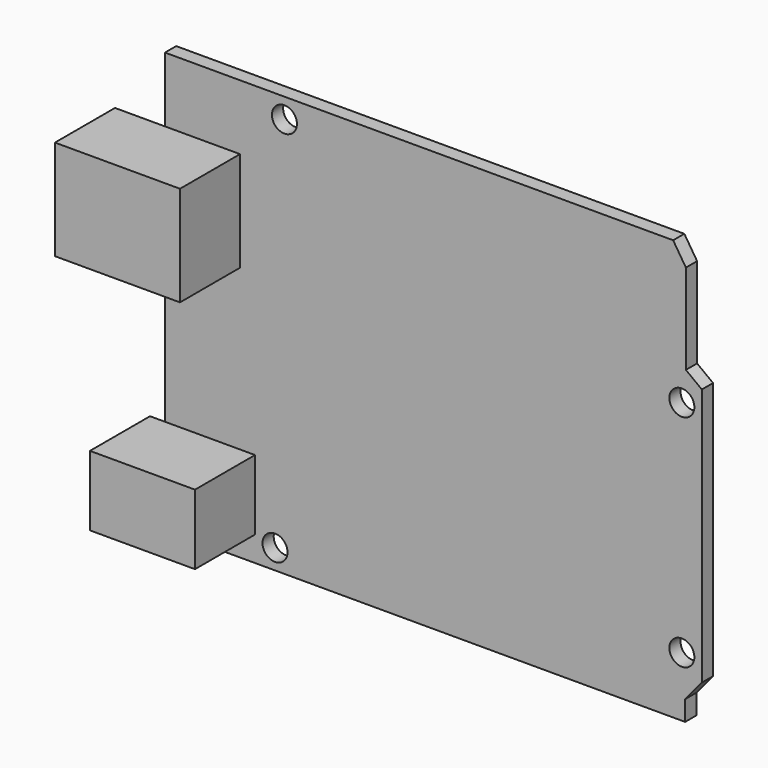
from build123d import *

# Parameters (mm, degrees)
F0_R     = 1.5875
F1_DEPTH = 1.778
F2_W     = 9.525
F2_H     = 12.7
F2_W_2   = 6.35
F3_DEPTH = 9.525
F2_W_3   = 1.905
F2_H_2   = 8.89
F2_W_4   = 11.43
F4_DEPTH = 9.525


with BuildPart() as f1:
    # F0 (on Front) → F1 (new body)
    with BuildSketch(Plane.XZ):
        Polygon((25.218356, 50.8), (-39.297644, 50.8), (-39.297644, -2.54), (26.742356, -2.54), (26.742356, 0), (28.862767, 2.54), (28.862767, 35.306), (26.838946, 36.840845), (26.838946, 48.270845), align=None)
        with Locations((-25.327644, 0)):
            Circle(F0_R, mode=Mode.SUBTRACT)
        with Locations((26.323122, 5.073287)):
            Circle(F0_R, mode=Mode.SUBTRACT)
        with Locations((-24.133679, 48.26)):
            Circle(F0_R, mode=Mode.SUBTRACT)
        with Locations((26.323122, 33.013287)):
            Circle(F0_R, mode=Mode.SUBTRACT)
    extrude(amount=F1_DEPTH)

    # F2 (on face) → F3 (join)
    with BuildSketch(Plane.XZ.offset(1.778)):
        with Locations((-34.535144, 36.195)):
            Rectangle(F2_W, F2_H)
        with Locations((-42.472644, 36.195)):
            Rectangle(F2_W_2, F2_H)
    extrude(amount=F3_DEPTH)

    # F2 (on face) → F4 (join)
    with BuildSketch(Plane.XZ.offset(1.778)):
        with Locations((-40.250144, 5.088352)):
            Rectangle(F2_W_3, F2_H_2)
        with Locations((-33.582644, 5.088352)):
            Rectangle(F2_W_4, F2_H_2)
    extrude(amount=F4_DEPTH)


solid = f1.part
